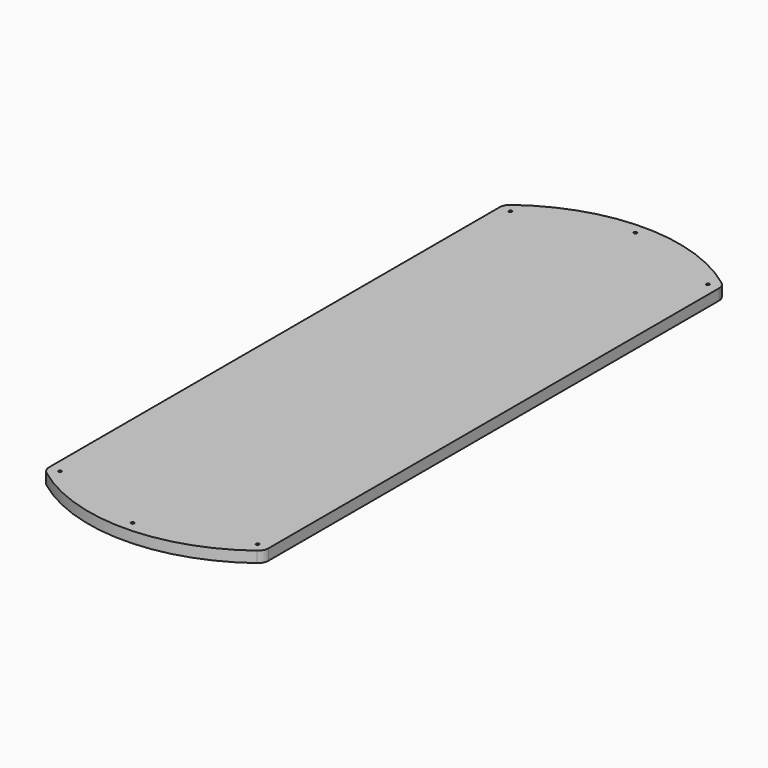
from build123d import *

# Parameters (mm, degrees)
F0_R     = 1.7272
F1_DEPTH = 12.7


with BuildPart() as f1:
    # F0 (on Top) → F1 (new body)
    with BuildSketch(Plane.XY):
        with BuildLine():
            Line((127, -325.721193), (127, 325.721193))
            ThreePointArc((127, 325.721193), (125.659225, 331.400805), (121.92, 335.881193))
            ThreePointArc((121.92, 335.881193), (0, 376.521193), (-121.92, 335.881193))
            ThreePointArc((-121.92, 335.881193), (-125.659225, 331.400805), (-127, 325.721193))
            Line((-127, 325.721193), (-127, -325.721193))
            ThreePointArc((-127, -325.721193), (-125.659225, -331.400805), (-121.92, -335.881193))
            ThreePointArc((-121.92, -335.881193), (0, -376.521193), (121.92, -335.881193))
            ThreePointArc((121.92, -335.881193), (125.659225, -331.400805), (127, -325.721193))
        make_face()
        with Locations((-114.3, -325.721193)):
            Circle(F0_R, mode=Mode.SUBTRACT)
        with Locations((0, -363.821193)):
            Circle(F0_R, mode=Mode.SUBTRACT)
        with Locations((114.3, -325.721193)):
            Circle(F0_R, mode=Mode.SUBTRACT)
        with Locations((-114.3, 325.721193)):
            Circle(F0_R, mode=Mode.SUBTRACT)
        with Locations((0, 363.821193)):
            Circle(F0_R, mode=Mode.SUBTRACT)
        with Locations((114.3, 325.721193)):
            Circle(F0_R, mode=Mode.SUBTRACT)
    extrude(amount=F1_DEPTH)


solid = f1.part
